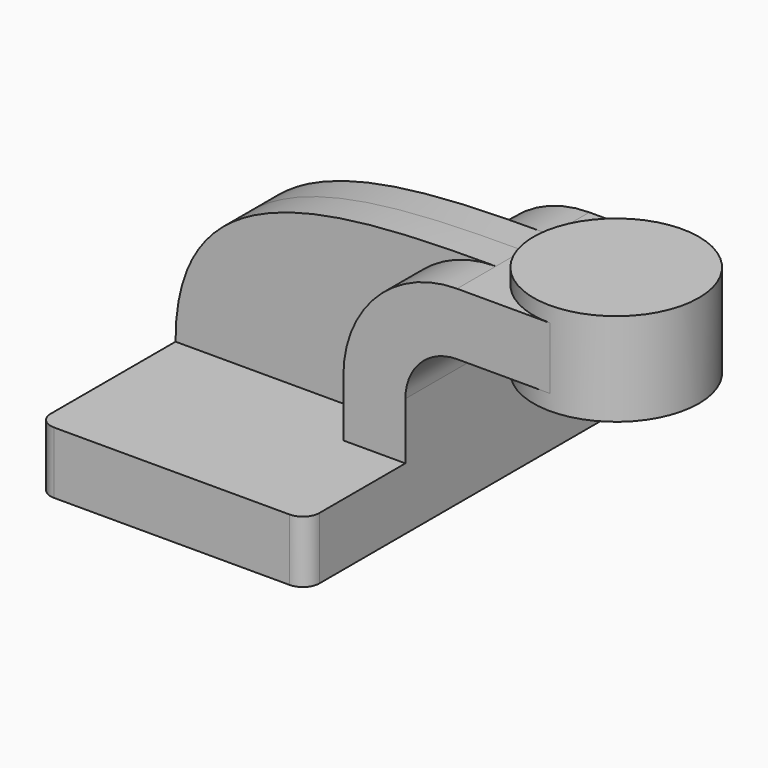
from build123d import *

# Parameters (mm, degrees)
F1_DEPTH = 63.5
F2_DEPTH = 25.4
F3_DEPTH = 10.4775
F0_W     = 25.4
F0_H     = 4.7752
F0_H_2   = 19.05
F0_H_3   = 4.7498
F5_R     = 5.08


with BuildPart() as f1:
    # F0 (on Front) → F1 (new body, symmetric)
    with BuildSketch(Plane.XZ):
        Polygon((22.225, 9.525), (-41.275, 9.525), (-41.275, -9.525), (41.275, -9.525), (41.275, 9.525), align=None)
    extrude(amount=F1_DEPTH, both=True)

    # F0 (on Front) → F2 (join, symmetric)
    with BuildSketch(Plane.XZ):
        Polygon((22.225, 9.525), (-41.275, 9.525), (-41.275, -9.525), (41.275, -9.525), (41.275, 9.525), align=None)
        with BuildLine():
            Line((22.225, 27.0002), (22.225, 9.525))
            Line((22.225, 9.525), (41.275, 9.525))
            Line((41.275, 9.525), (41.275, 27.0002))
            ThreePointArc((41.275, 27.0002), (45.9246798487, 38.2255201513), (57.15, 42.8752))
            Line((57.15, 42.8752), (85.725, 42.8752))
            Line((85.725, 42.8752), (85.725, 61.9252))
            Line((85.725, 61.9252), (57.15, 61.9252))
            ThreePointArc((57.15, 61.9252), (32.4542956671, 51.6959043329), (22.225, 27.0002))
        make_face()
    extrude(amount=F2_DEPTH, both=True)

    # F0 (on Front) → F3 (join, symmetric)
    with BuildSketch(Plane.XZ):
        with BuildLine():
            add(Edge.make_bspline(
                [(-41.275, 9.525), (-41.4362549782, 59.2387728393), (7.6155788265, 61.9246140122), (57.15, 61.9252)],
                knots=[0, 0, 0, 0, 111.5045361635, 111.5045361635, 111.5045361635, 111.5045361635], degree=3))
            Line((-41.275, 9.525), (22.225, 9.525))
            Line((22.225, 9.525), (22.225, 27.0002))
            ThreePointArc((22.225, 27.0002), (32.4542956671, 51.6959043329), (57.15, 61.9252))
        make_face()
    extrude(amount=F3_DEPTH, both=True)

    # F0 (on Front) → F4 (revolve)
    with BuildSketch(Plane.XZ):
        with Locations((98.425, 40.4876)):
            Rectangle(F0_W, F0_H)
        with Locations((98.425, 52.4002)):
            Rectangle(F0_W, F0_H_2)
        with Locations((98.425, 64.3001)):
            Rectangle(F0_W, F0_H_3)
    revolve(axis=Axis((85.725, 0, 52.3875), (0, 0, 1)))

    # F5
    f5_edges = [f1.edges().sort_by_distance(p)[0] for p in [
        (41.275, 63.5, 0),
        (-41.275, 63.5, 0),
        (-41.275, -63.5, 0),
        (41.275, -63.5, 0),
    ]]
    fillet(f5_edges, radius=F5_R)


solid = f1.part
